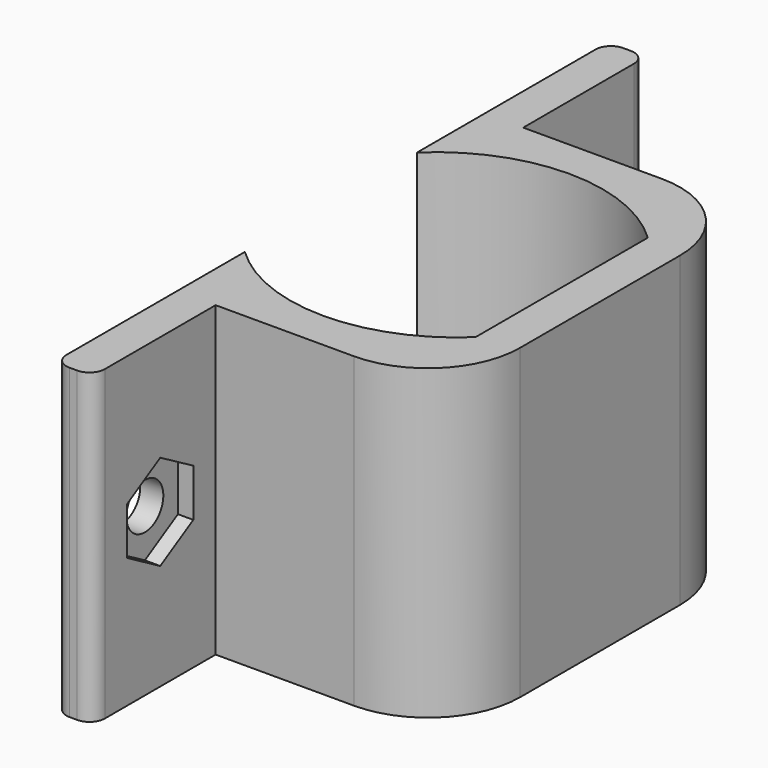
from build123d import *

# Parameters (mm, degrees)
PAD_DEPTH            = 20
POCKET_DEPTH         = 20.001
FILLET_R             = 6
FILLET001_R          = 1
POCKET001_DEPTH      = 1
SKETCH003_R          = 1.5
POCKET002_DEPTH      = 1.501
BODY_PLACEMENT_ANGLE = 90


with BuildPart() as part:
    # Sketch → Pad (new body)
    with BuildSketch(Plane.YZ):
        Polygon((0, 0), (0, 2.5), (10, 2.5), (10, 17.5), (35, 17.5), (35, 2.5), (45, 2.5), (45, 0), align=None)
    extrude(amount=PAD_DEPTH)

    # Sketch001 (on Face10 of Pad) → Pocket (cut, through all)
    with BuildSketch(Plane.YZ.offset(20)):
        with BuildLine():
            Line((15.5, 15), (29.5, 15))
            ThreePointArc((29.5, 0), (32.5, 7.5), (29.5, 15))
            Line((15.5, 0), (29.5, 0))
            ThreePointArc((15.5, 15), (12.5, 7.5), (15.5, 0))
        make_face()
    extrude(amount=-POCKET_DEPTH, mode=Mode.SUBTRACT)

    # Fillet
    fillet_edges = [part.edges().sort_by_distance(p)[0] for p in [
        (10, 10, 17.5),
        (10, 35, 17.5),
    ]]
    fillet(fillet_edges, radius=FILLET_R)

    # Fillet001
    fillet001_edges = [part.edges().sort_by_distance(p)[0] for p in [
        (10, 0, 2.5),
        (10, 0, 0),
        (10, 45, 2.5),
        (10, 45, 0),
    ]]
    fillet(fillet001_edges, radius=FILLET001_R)

    # Sketch002 (on Face2 of Fillet001) → Pocket001 (cut)
    with BuildSketch(Plane(origin=(0, 0, 2.5), x_dir=(0, -1, 0), z_dir=(0, 0, 1))):
        Polygon((-36.815321, 11.55), (-39.5, 13.1), (-42.184679, 11.55), (-42.184679, 8.45), (-39.5, 6.9), (-36.815321, 8.45), align=None)
        Polygon((-2.815321, 8.45), (-2.815321, 11.55), (-5.5, 13.1), (-8.184679, 11.55), (-8.184679, 8.45), (-5.5, 6.9), align=None)
    extrude(amount=-POCKET001_DEPTH, mode=Mode.SUBTRACT)

    # Sketch003 (on Face33 of Pocket001) → Pocket002 (cut, through all)
    with BuildSketch(Plane(origin=(0, 0, 1.5), x_dir=(0, -1, 0), z_dir=(0, 0, 1))):
        with Locations((-39.5, 10)):
            Circle(SKETCH003_R)
        with Locations((-5.5, 10)):
            Circle(SKETCH003_R)
    extrude(amount=-POCKET002_DEPTH, mode=Mode.SUBTRACT)


with BuildPart() as part_1:
    # Body placement: moved
    add(part.part.rotate(Axis((0, 0, 0), (0, 1, 0)), BODY_PLACEMENT_ANGLE))


solid = part_1.part
